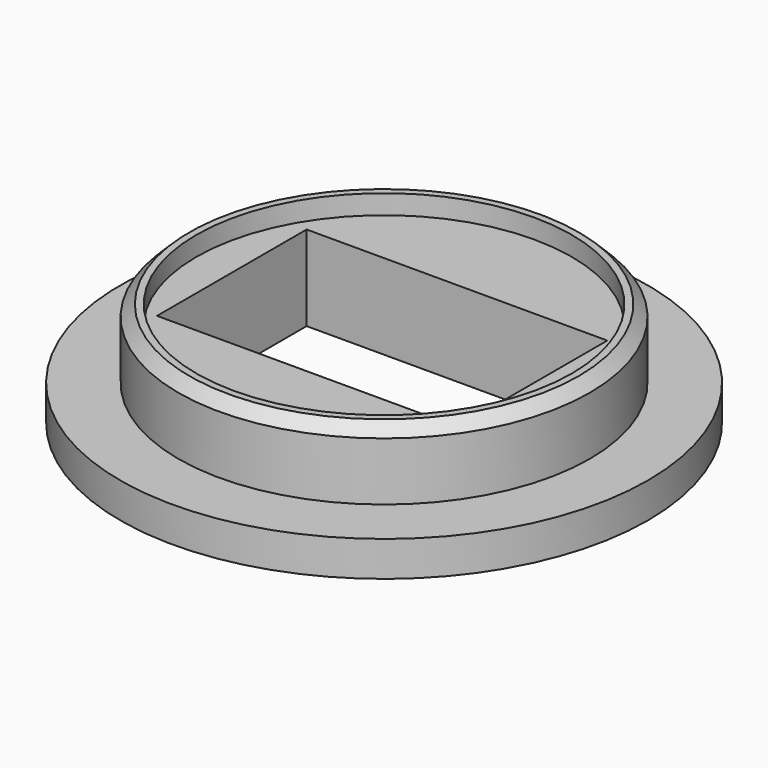
from build123d import *

# Parameters (mm, degrees)
F0_R     = 19.05
F1_DEPTH = 2.54
F2_R     = 14.85
F3_DEPTH = 5
F4_W     = 21.7
F4_H     = 13.5
F5_DEPTH = 10
F6_R     = 13.55
F7_DEPTH = 1.4
F8_SIZE  = 0.8


with BuildPart() as f1:
    # F0 (on Top) → F1 (new body)
    with BuildSketch(Plane.XY):
        Circle(F0_R)
    extrude(amount=F1_DEPTH)

    # F2 (on face) → F3 (join)
    with BuildSketch(Plane.XY.offset(2.54)):
        Circle(F2_R)
    extrude(amount=F3_DEPTH)

    # F4 (on face) → F5 (cut)
    with BuildSketch(Plane.XY.offset(7.54)):
        with Locations((0.067133, -0.25862)):
            Rectangle(F4_W, F4_H)
    extrude(amount=-F5_DEPTH, mode=Mode.SUBTRACT)

    # F6 (on face) → F7 (cut)
    with BuildSketch(Plane.XY.offset(7.54)):
        Circle(F6_R)
    extrude(amount=-F7_DEPTH, mode=Mode.SUBTRACT)

    # F8
    f8_edges = [f1.edges().sort_by_distance(p)[0] for p in [
        (-14.85, 0, 7.54),
    ]]
    chamfer(f8_edges, length=F8_SIZE)


solid = f1.part
